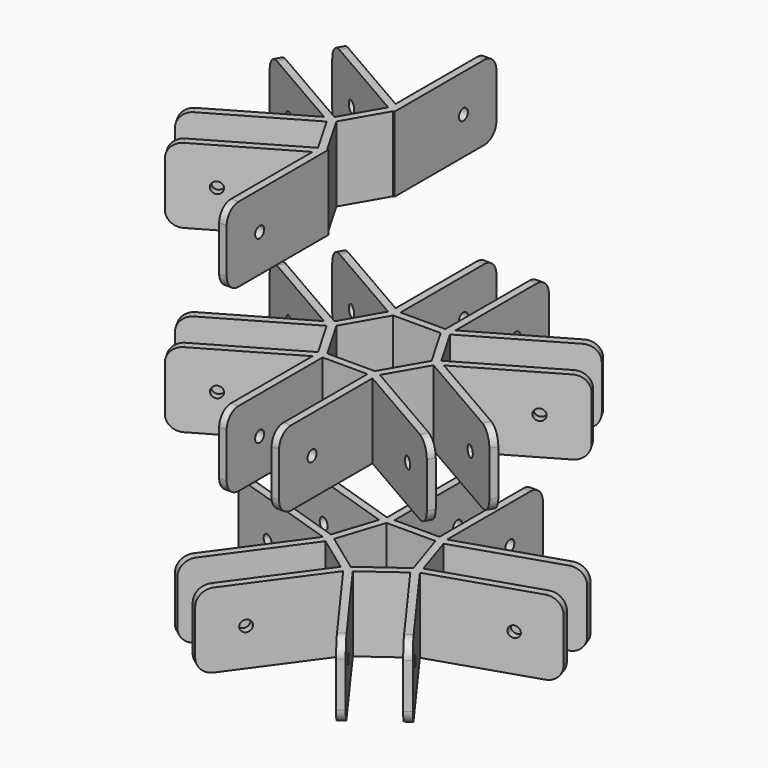
from build123d import *

# Parameters (mm, degrees)
F1_DEPTH  = 63.5
F2_R      = 4.7625
F3_DEPTH  = 50.801
F5_R      = 12.7
F8_COUNT  = 5
F9_COUNT  = 6
F10_COUNT = 4
F10_ANGLE = 180
F11_W     = 285.75
F11_H     = 63.5
F12_DEPTH = 44.45


with BuildPart() as f1:
    # F0 (on Top) → F1 (new body)
    with BuildSketch(Plane.XY):
        Polygon((-19.05, 136.525), (-25.4, 136.525), (-25.4, 28.575), (25.4, 28.575), (25.4, 136.525), (19.05, 136.525), (19.05, 34.925), (-19.05, 34.925), align=None)
    extrude(amount=-F1_DEPTH)

    # F2 (on face) → F3 (cut, through all)
    with BuildSketch(Plane(origin=(-25.4, 0, 0), x_dir=(0, -1, 0), z_dir=(-1, 0, 0))):
        with Locations((-101.6, -31.75)):
            Circle(F2_R)
    extrude(amount=-F3_DEPTH, mode=Mode.SUBTRACT)

    # F5
    f5_edges = [f1.edges().sort_by_distance(p)[0] for p in [
        (-22.225, 136.525, -63.5),
        (22.225, 136.525, -63.5),
        (22.225, 136.525, 0),
        (-22.225, 136.525, 0),
    ]]
    fillet(f5_edges, radius=F5_R)


with BuildPart() as f6_1:
    # F6: copy of F1
    add(f1.part.moved(Location((0, 6.35, 152.4))))


with BuildPart() as f7_1:
    # F7: copy of F6_1
    add(f6_1.part.moved(Location((0, 0, 152.4))))

    # F10: F7_1 ×4 about axis
    f10_axis = Axis((0, 0, 233.6967885494), (0, 0, 1))


with BuildPart() as f1_1:
    add(f1.part)

    # F8: F1 ×5 about axis
    f8_axis = Axis((0, 0, 233.6967885494), (0, 0, 1))
    for i in range(1, F8_COUNT):
        add(f1.part.rotate(f8_axis, i * 360 / F8_COUNT))


with BuildPart() as f6_1_1:
    add(f6_1.part)

    # F9: F6_1 ×6 about axis
    f9_axis = Axis((0, 0, 233.6967885494), (0, 0, 1))
    for i in range(1, F9_COUNT):
        add(f6_1.part.rotate(f9_axis, i * 360 / F9_COUNT))


with BuildPart() as f7_1_1:
    add(f7_1.part)
    for i in range(1, F10_COUNT):
        add(f7_1.part.rotate(f10_axis, i * F10_ANGLE / (F10_COUNT - 1)))

    # F11 (on face) → F12 (cut, through all)
    with BuildSketch(Plane.YZ.offset(25.4)):
        with Locations((0, 273.05)):
            Rectangle(F11_W, F11_H)
    extrude(amount=-F12_DEPTH, mode=Mode.SUBTRACT)


solid = Compound([f1_1.part, f6_1_1.part, f7_1_1.part])
